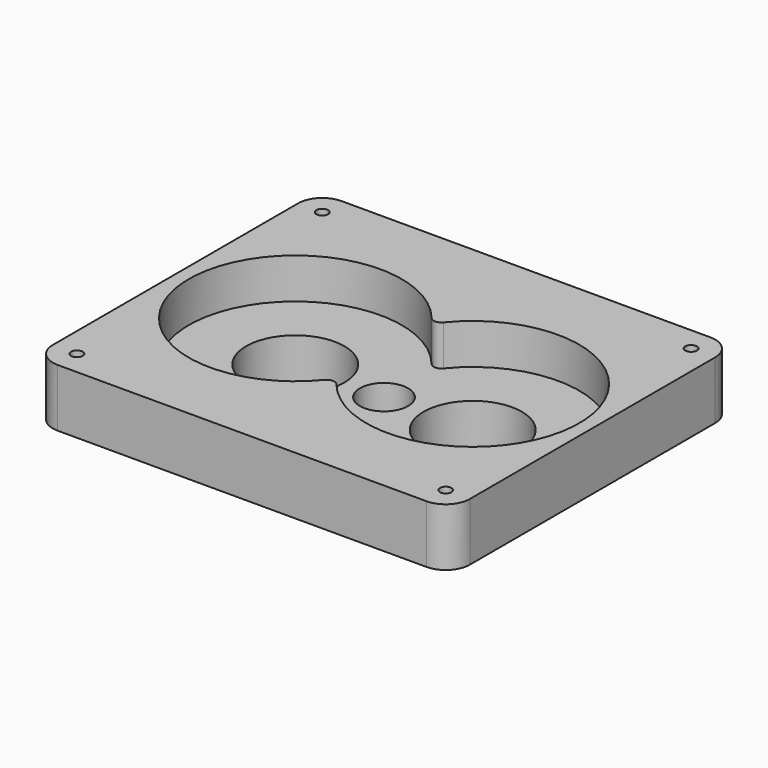
from build123d import *

# Parameters (mm, degrees)
SKETCH074_R     = 1.5
SKETCH074_R_2   = 12.75
SKETCH074_R_3   = 6.25
PAD042_DEPTH    = 15
SKETCH060_R     = 12.75
SKETCH060_R_2   = 6.25
PAD043_DEPTH    = 25
POCKET036_DEPTH = 10.5


with BuildPart() as part:
    # Sketch074 → Pad042 (new body)
    with BuildSketch(Plane.XY):
        with BuildLine():
            ThreePointArc((-24.8, 46), (-29.219417, 44.169417), (-31.05, 39.75))
            Line((-31.05, 39.75), (-31.05, -39.75))
            ThreePointArc((-31.05, -39.75), (-29.219417, -44.169417), (-24.8, -46))
            Line((-24.8, -46), (70.8, -46))
            ThreePointArc((70.8, -46), (75.219417, -44.169417), (77.05, -39.75))
            Line((77.05, -39.75), (77.05, 39.75))
            ThreePointArc((77.05, 39.75), (75.219417, 44.169417), (70.8, 46))
            Line((70.8, 46), (-24.8, 46))
        make_face()
        with Locations((-24.8, 39.75)):
            Circle(SKETCH074_R, mode=Mode.SUBTRACT)
        with Locations((70.8, 39.75)):
            Circle(SKETCH074_R, mode=Mode.SUBTRACT)
        with Locations((-24.8, -39.75)):
            Circle(SKETCH074_R, mode=Mode.SUBTRACT)
        with Locations((70.8, -39.75)):
            Circle(SKETCH074_R, mode=Mode.SUBTRACT)
        Circle(SKETCH074_R_2, mode=Mode.SUBTRACT)
        with Locations((46, 0)):
            Circle(SKETCH074_R_2, mode=Mode.SUBTRACT)
        with Locations((23, 0)):
            Circle(SKETCH074_R_3, mode=Mode.SUBTRACT)
    extrude(amount=-PAD042_DEPTH)

    # Sketch060 → Pad043 (join)
    with BuildSketch(Plane(origin=(0, 0, 0), x_dir=(1, 0, 0), z_dir=(0, 0, -1))):
        with BuildLine():
            ThreePointArc((0, 18.75), (-18.75, 0), (0, -18.75))
            Line((0, -18.75), (46, -18.75))
            ThreePointArc((46, -18.75), (64.75, 0), (46, 18.75))
            Line((46, 18.75), (0, 18.75))
        make_face()
        Circle(SKETCH060_R, mode=Mode.SUBTRACT)
        with Locations((46, 0)):
            Circle(SKETCH060_R, mode=Mode.SUBTRACT)
        with Locations((23, 0)):
            Circle(SKETCH060_R_2, mode=Mode.SUBTRACT)
    extrude(amount=PAD043_DEPTH)

    # Sketch064 → Pocket036 (cut)
    with BuildSketch(Plane(origin=(0, 0, 0), x_dir=(1, 0, 0), z_dir=(0, 0, -1))):
        with BuildLine():
            ThreePointArc((21.445946, 17.373296), (-27.6, 0), (21.445946, -17.373296))
            ThreePointArc((24.554054, -17.373296), (23, -16.63223), (21.445946, -17.373296))
            ThreePointArc((24.554054, -17.373296), (73.6, 0), (24.554054, 17.373296))
            ThreePointArc((21.445946, 17.373296), (23, 16.63223), (24.554054, 17.373296))
        make_face()
    extrude(amount=POCKET036_DEPTH, mode=Mode.SUBTRACT)


solid = part.part
